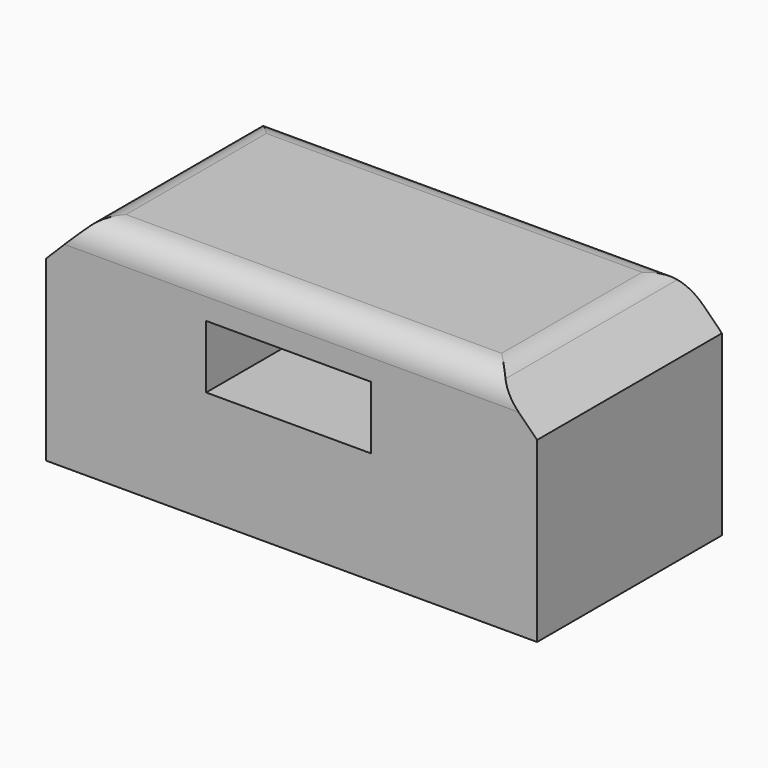
from build123d import *

# Parameters (mm, degrees)
F0_W     = 53.1371047842
F0_H     = 24.2517590523
F1_DEPTH = 12.5
F2_W     = 17.8484022617
F2_H     = 6.8188142031
F3_DEPTH = 25
F4_SIZE  = 5
F5_R     = 3


with BuildPart() as f1:
    # F0 (on Front) → F1 (new body, symmetric)
    with BuildSketch(Plane.XZ):
        Rectangle(F0_W, F0_H)
    extrude(amount=F1_DEPTH, both=True)

    # F2 (on face) → F3 (cut)
    with BuildSketch(Plane.XZ.offset(12.5)):
        with Locations((-0.3203526139, 3.4094071016)):
            Rectangle(F2_W, F2_H)
    extrude(amount=-F3_DEPTH, mode=Mode.SUBTRACT)

    # F4
    f4_edges = [f1.edges().sort_by_distance(p)[0] for p in [
        (-26.568552, 0, 12.12588),
        (26.568552, 0, 12.12588),
    ]]
    chamfer(f4_edges, length=F4_SIZE)

    # F5
    f5_edges = [f1.edges().sort_by_distance(p)[0] for p in [
        (0, -12.5, 12.12588),
        (0, 12.5, 12.12588),
        (-21.568552, 0, 12.12588),
        (21.568552, 0, 12.12588),
    ]]
    fillet(f5_edges, radius=F5_R)


solid = f1.part
